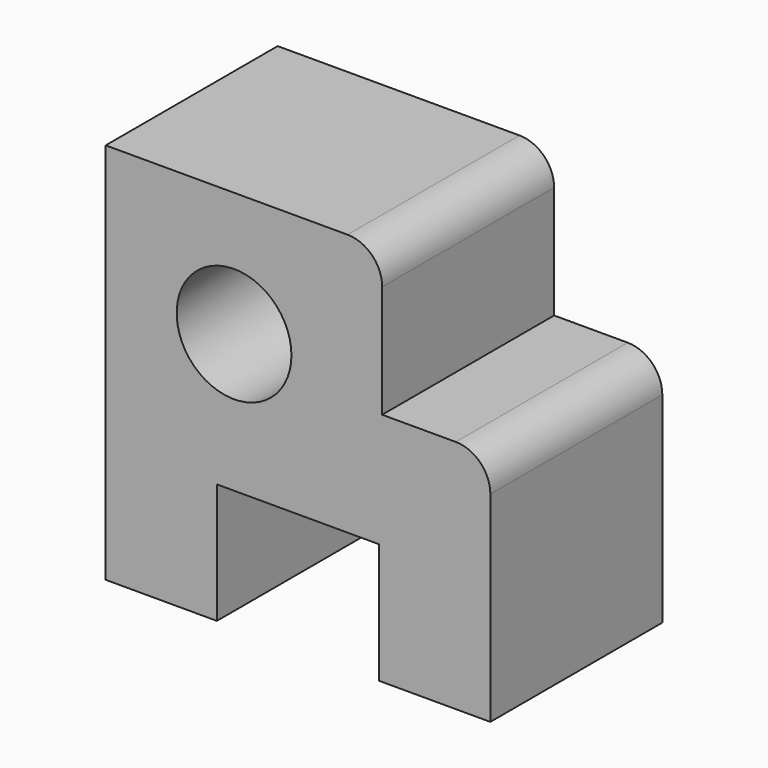
from build123d import *

# Parameters (mm, degrees)
F1_DEPTH = 60
F2_R     = 9.656854
F3_R     = 16.014444
F4_DEPTH = 101


with BuildPart() as f1:
    # F0 (on Front) → F1 (new body)
    with BuildSketch(Plane.XZ):
        Polygon((18.220022, 60.063125), (-58.951251, 60.063125), (-58.951251, -46.7043), (-27.914977, -46.7043), (-27.914977, -13.151571), (17.381208, -13.151571), (17.381208, -46.7043), (48.417483, -46.7043), (48.417483, 18.961032), (18.220022, 18.961032), align=None)
    extrude(amount=F1_DEPTH)

    # F2
    f2_edges = [f1.edges().sort_by_distance(p)[0] for p in [
        (18.220022, -30, 60.063125),
        (48.417483, -30, 18.961032),
    ]]
    fillet(f2_edges, radius=F2_R)

    # F3 (on face) → F4 (cut)
    with BuildSketch(Plane.XZ.offset(60)):
        with Locations((-23.123993, 25.327024)):
            Circle(F3_R)
    extrude(amount=-F4_DEPTH, mode=Mode.SUBTRACT)


solid = f1.part
